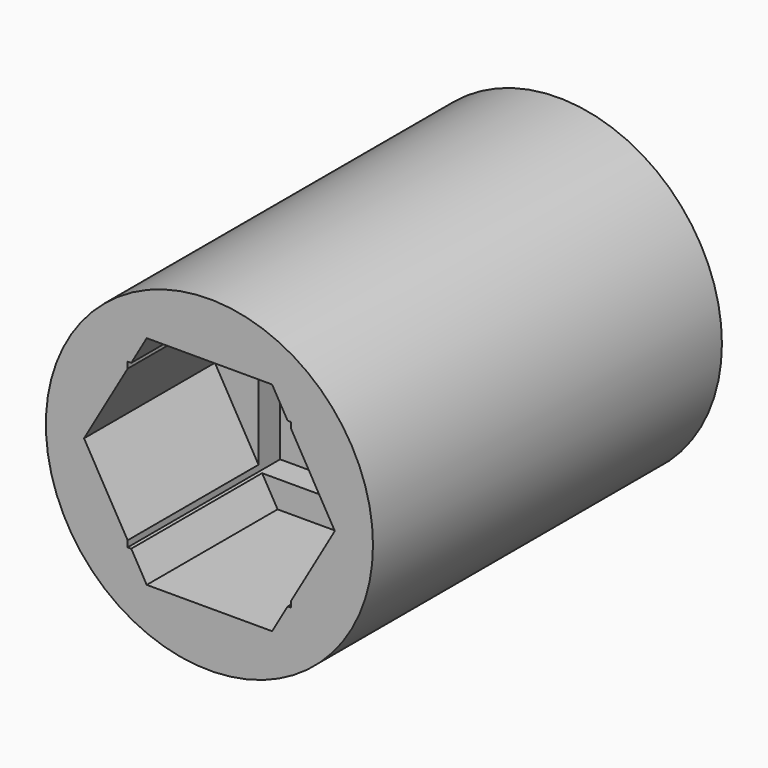
from build123d import *

# Parameters (mm, degrees)
F0_R     = 9.525
F1_DEPTH = 25.4
F3_DEPTH = 25.401
F4_DEPTH = 11.0998
F6_DEPTH = 9.525


with BuildPart() as f1:
    # F0 (on Front) → F1 (new body)
    with BuildSketch(Plane.XZ):
        Circle(F0_R)
    extrude(amount=-F1_DEPTH)

    # F2 (on Front) → F3 (cut, through all)
    with BuildSketch(Plane.XZ):
        with BuildLine():
            ThreePointArc((-4.7625, 0), (-3.367596, -3.367596), (0, -4.7625))
            ThreePointArc((0, -4.7625), (3.367596, -3.367596), (4.7625, 0))
            ThreePointArc((4.7625, 0), (3.367596, 3.367596), (0, 4.7625))
            ThreePointArc((0, 4.7625), (-3.367596, 3.367596), (-4.7625, 0))
        make_face()
    extrude(amount=-F3_DEPTH, mode=Mode.SUBTRACT)

    # F2 (on Front) → F4 (cut)
    with BuildSketch(Plane.XZ):
        with BuildLine():
            Line((0, -4.7625), (4.7625, -4.7625))
            Line((4.7625, -4.7625), (4.7625, 0))
            ThreePointArc((4.7625, 0), (3.367596, -3.367596), (0, -4.7625))
        make_face()
        with BuildLine():
            Line((-4.7625, -4.7625), (0, -4.7625))
            ThreePointArc((0, -4.7625), (-3.367596, -3.367596), (-4.7625, 0))
            Line((-4.7625, 0), (-4.7625, -4.7625))
        make_face()
        with BuildLine():
            ThreePointArc((0, 4.7625), (3.367596, 3.367596), (4.7625, 0))
            Line((4.7625, 0), (4.7625, 4.7625))
            Line((4.7625, 4.7625), (0, 4.7625))
        make_face()
        with BuildLine():
            Line((-4.7625, 4.7625), (-4.7625, 0))
            ThreePointArc((-4.7625, 0), (-3.367596, 3.367596), (0, 4.7625))
            Line((0, 4.7625), (-4.7625, 4.7625))
        make_face()
    extrude(amount=-F4_DEPTH, mode=Mode.SUBTRACT)

    # F5 (on Front) → F6 (cut)
    with BuildSketch(Plane.XZ):
        Polygon((3.65125, -6.324151), (7.3025, 0), (3.65125, 6.324151), (-3.65125, 6.324151), (-7.3025, 0), (-3.65125, -6.324151), align=None)
    extrude(amount=-F6_DEPTH, mode=Mode.SUBTRACT)


solid = f1.part
